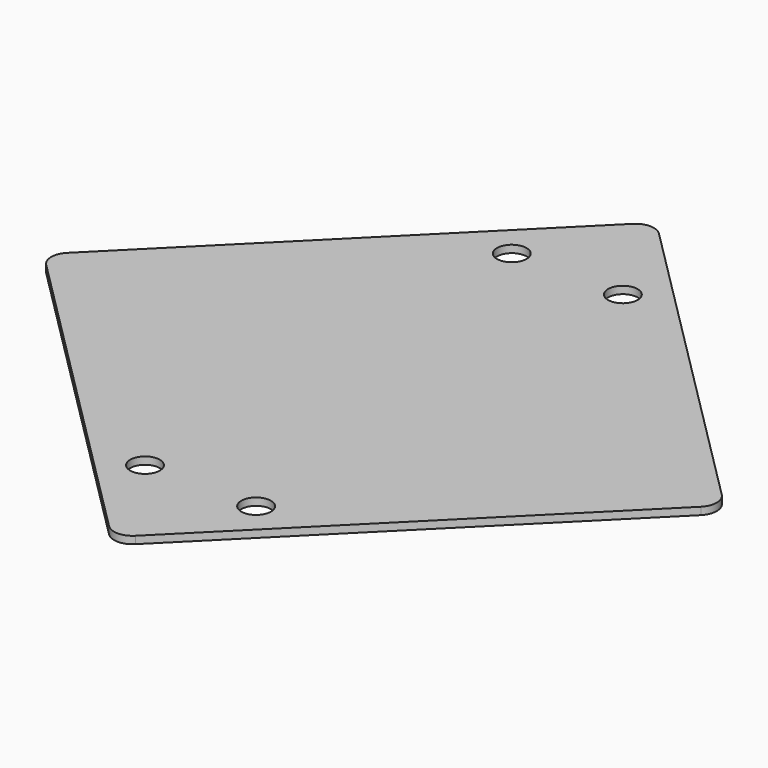
from build123d import *

# Parameters (mm, degrees)
CYLINDER_R             = 4
CYLINDER_DEPTH         = 10
CYLINDER001_R          = 4
CYLINDER001_DEPTH      = 10
CYLINDER002_R          = 4
CYLINDER002_DEPTH      = 10
CYLINDER003_R          = 4
CYLINDER003_DEPTH      = 10
BOX_W                  = 130
BOX_H                  = 130
BOX_DEPTH              = 2
FILLET_R               = 5
FILLET_PLACEMENT_ANGLE = 45


with BuildPart() as cylinder:
    # Cylinder → Cylinder (new body)
    with BuildSketch(Plane(origin=(15, 30, 0), x_dir=(1, 0, 0), z_dir=(0, 0, 1))):
        Circle(CYLINDER_R)
    extrude(amount=CYLINDER_DEPTH)


with BuildPart() as cylinder001:
    # Cylinder001 → Cylinder001 (new body)
    with BuildSketch(Plane(origin=(-15, 30, 0), x_dir=(1, 0, 0), z_dir=(0, 0, 1))):
        Circle(CYLINDER001_R)
    extrude(amount=CYLINDER001_DEPTH)


with BuildPart() as cylinder002:
    # Cylinder002 → Cylinder002 (new body)
    with BuildSketch(Plane(origin=(-15, 153.8, 0), x_dir=(1, 0, 0), z_dir=(0, 0, 1))):
        Circle(CYLINDER002_R)
    extrude(amount=CYLINDER002_DEPTH)


with BuildPart() as fusion:
    # Cylinder003 → Cylinder003 (new body)
    with BuildSketch(Plane(origin=(15, 153.8, 0), x_dir=(1, 0, 0), z_dir=(0, 0, 1))):
        Circle(CYLINDER003_R)
    extrude(amount=CYLINDER003_DEPTH)

    # Fusion: union Cylinder, Cylinder001, Cylinder002
    add(cylinder.part)
    add(cylinder001.part)
    add(cylinder002.part)


with BuildPart() as cut:
    # Box → Box (new body)
    with BuildSketch(Plane.XY):
        with Locations((65, 65)):
            Rectangle(BOX_W, BOX_H)
    extrude(amount=BOX_DEPTH)

    # Fillet
    fillet_edges = [cut.edges().sort_by_distance(p)[0] for p in [
        (0, 0, 1),
        (0, 130, 1),
        (130, 0, 1),
        (130, 130, 1),
    ]]
    fillet(fillet_edges, radius=FILLET_R)


with BuildPart() as cut_1:
    # Fillet placement: moved
    add(cut.part.rotate(Axis((0, 0, 0), (0, 0, 1)), FILLET_PLACEMENT_ANGLE))

    # Cut: cut Fusion
    add(fusion.part, mode=Mode.SUBTRACT)


solid = cut_1.part
